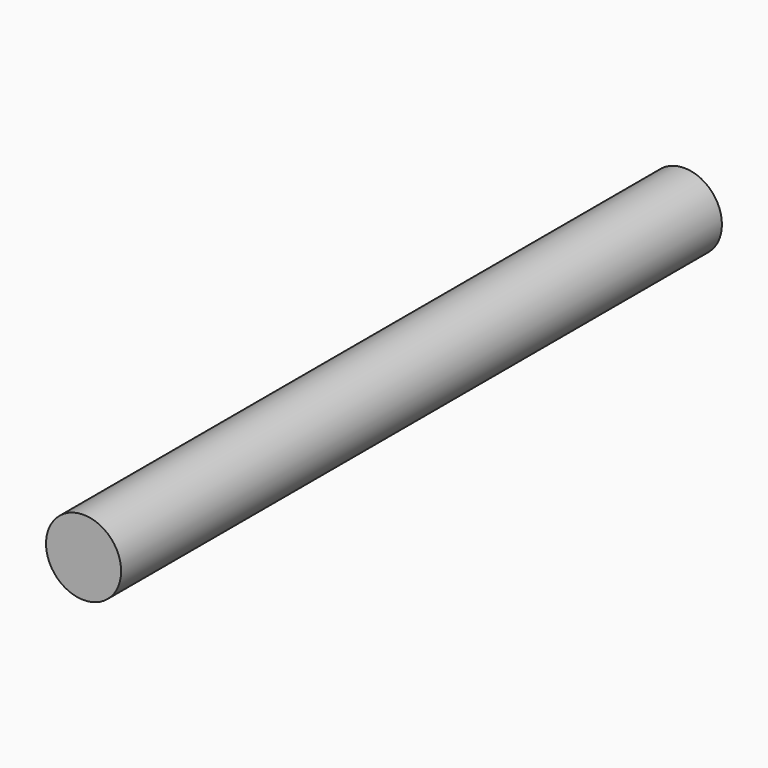
from build123d import *

# Parameters (mm, degrees)
SKETCH_R  = 1.5
PAD_DEPTH = 30


with BuildPart() as part:
    # Sketch → Pad (new body)
    with BuildSketch(Plane.XZ):
        Circle(SKETCH_R)
    extrude(amount=-PAD_DEPTH)


solid = part.part
